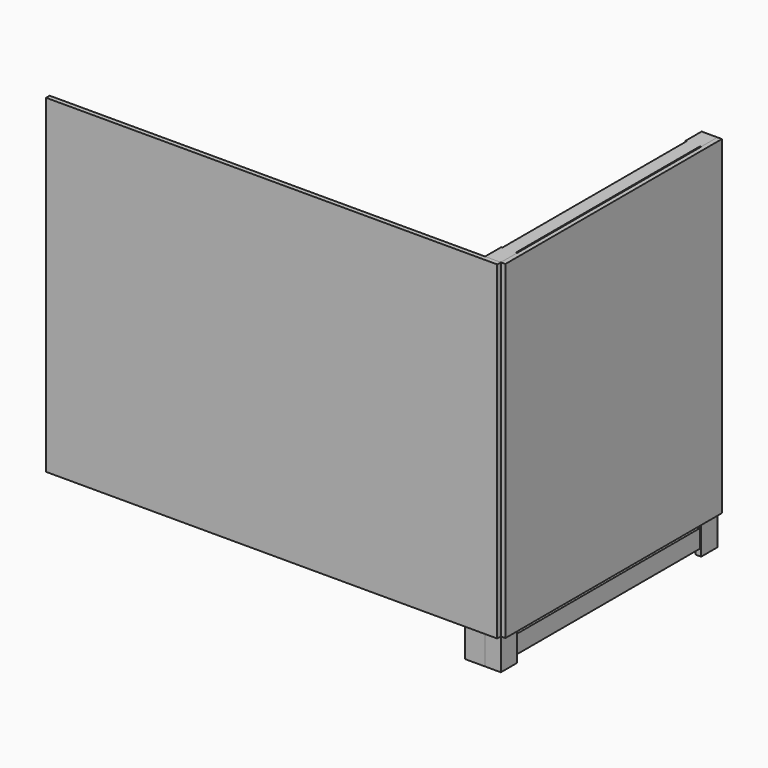
from build123d import *

# Parameters (mm, degrees)
F1_DEPTH  = 800
F2_W      = 30
F2_H      = 20
F2_H_2    = 40
F3_DEPTH  = 570
F4_W      = 45
F4_H      = 70
F5_DEPTH  = 610
F6_W      = 1000
F6_H      = 730
F7_DEPTH  = 10
F8_W      = 600
F8_H      = 730
F9_DEPTH  = 10
F11_DEPTH = 20


with BuildPart() as f1:
    # F0 (on Top) → F1 (new body)
    with BuildSketch(Plane.XY):
        Polygon((17.5, 300), (-17.5, 300), (-17.5, 255), (-5, 255), (-5, 285), (5, 285), (5, 255), (17.5, 255), align=None)
        Polygon((-5, -255), (-17.5, -255), (-17.5, -300), (17.5, -300), (17.5, -255), (5, -255), (5, -285), (-5, -285), align=None)
    extrude(amount=F1_DEPTH)

    # F2 (on face) → F3 (join, through all)
    with BuildSketch(Plane.XZ.offset(-285)):
        with Locations((0, 790)):
            Rectangle(F2_W, F2_H)
        with Locations((0, 35)):
            Rectangle(F2_W, F2_H_2)
    extrude(amount=F3_DEPTH)


with BuildPart() as f5:
    # F4 (on face) → F5 (new body)
    with BuildSketch(Plane.XZ.offset(300)):
        with Locations((-40, 35)):
            Rectangle(F4_W, F4_H)
    extrude(amount=-F5_DEPTH)


with BuildPart() as f7:
    # F6 (on face) → F7 (new body)
    with BuildSketch(Plane.XZ.offset(300)):
        with Locations((-482.5, 435)):
            Rectangle(F6_W, F6_H)
    extrude(amount=F7_DEPTH)


with BuildPart() as f9:
    # F8 (on face) → F9 (new body)
    with BuildSketch(Plane.YZ.offset(17.5)):
        with Locations((0, 435)):
            Rectangle(F8_W, F8_H)
    extrude(amount=F9_DEPTH)


with BuildPart() as f11:
    # F10 (on face) → F11 (new body)
    with BuildSketch(Plane.XY.offset(70)):
        Polygon((-17.5, -255), (-5, -255), (-5, 255), (-17.5, 255), (-17.5, 300), (-947.5, 300), (-947.5, 255), (-960, 255), (-960, -255), (-947.5, -255), (-947.5, -300), (-17.5, -300), align=None)
    extrude(amount=F11_DEPTH)


solid = Compound([f1.part, f5.part, f7.part, f9.part, f11.part])
